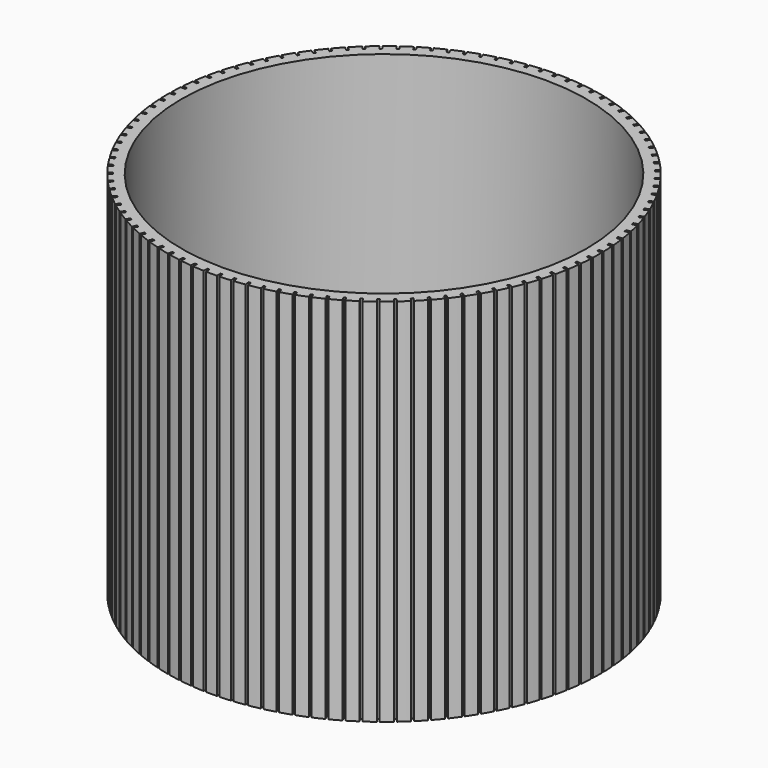
from build123d import *

# Parameters (mm, degrees)
F0_R     = 24.32304
F1_DEPTH = 41.656
F2_T     = -1.524
F3_W     = 0.254
F3_H     = 1.307197
F4_DEPTH = 41.657


with BuildPart() as f1:
    # F0 (on Top) → F1 (new body)
    with BuildSketch(Plane.XY):
        Circle(F0_R)
    extrude(amount=F1_DEPTH)

    # F2
    f2_openings = [f1.faces().sort_by_distance(p)[0] for p in [
        (0, 0, 41.656),
    ]]
    offset(amount=F2_T, openings=f2_openings)

    # F3 (on face) → F4 (cut, through all)
    with BuildSketch(Plane.XY.offset(41.656)):
        with Locations((0, 24.468638)):
            Rectangle(F3_W, F3_H)
        Polygon((1.688162, 25.065774), (1.434653, 25.081561), (1.353407, 23.776891), (1.606916, 23.761104), align=None)
        Polygon((3.242796, 24.912391), (2.990758, 24.943903), (2.828581, 23.646805), (3.080619, 23.615293), align=None)
        Polygon((4.784891, 24.662679), (4.535299, 24.709796), (4.292818, 23.425285), (4.54241, 23.378169), align=None)
        Polygon((6.308485, 24.317606), (6.062304, 24.380144), (5.740456, 23.113187), (5.986637, 23.050649), align=None)
        Polygon((7.807685, 23.878505), (7.565867, 23.956222), (7.165898, 22.711719), (7.407716, 22.634001), align=None)
        Polygon((9.276697, 23.347073), (9.040177, 23.43967), (8.563631, 22.222432), (8.800152, 22.129835), align=None)
        Polygon((10.709838, 22.725367), (10.479531, 22.832485), (9.928252, 21.647218), (10.15856, 21.5401), align=None)
        Polygon((12.101569, 22.015789), (11.878364, 22.137014), (11.254484, 20.988303), (11.477689, 20.867077), align=None)
        Polygon((13.446506, 21.221084), (13.231267, 21.355948), (12.537199, 20.248232), (12.752438, 20.113369), align=None)
        Polygon((14.739451, 20.344324), (14.53301, 20.492305), (13.771436, 19.429869), (13.977877, 19.281888), align=None)
        Polygon((15.975403, 19.3889), (15.778559, 19.549425), (14.952424, 18.536377), (15.149268, 18.375852), align=None)
        Polygon((17.149584, 18.358505), (16.963097, 18.530954), (16.075596, 17.571211), (16.262083, 17.398762), align=None)
        Polygon((18.257453, 17.257125), (18.082045, 17.440831), (17.13661, 16.538103), (17.312018, 16.354397), align=None)
        Polygon((19.294727, 16.089017), (19.131076, 16.28327), (18.131362, 15.441049), (18.295013, 15.246795), align=None)
        Polygon((20.257395, 14.858698), (20.106133, 15.062747), (19.056006, 14.284288), (19.207267, 14.080239), align=None)
        Polygon((21.141734, 13.570926), (21.003447, 13.783981), (19.906967, 13.072296), (20.045254, 12.85924), align=None)
        Polygon((21.944325, 12.230679), (21.819548, 12.451918), (20.680955, 11.809757), (20.805732, 11.588519), align=None)
        Polygon((22.662066, 10.843141), (22.55128, 11.071707), (21.374976, 10.501554), (21.485762, 10.272988), align=None)
        Polygon((23.29218, 9.413676), (23.195814, 9.648686), (21.986348, 9.152746), (22.082714, 8.917736), align=None)
        Polygon((23.832231, 7.947812), (23.750658, 8.188357), (22.512706, 7.768546), (22.594279, 7.528001), align=None)
        Polygon((24.280131, 6.451216), (24.213666, 6.696366), (22.952016, 6.354309), (23.01848, 6.109159), align=None)
        Polygon((24.634148, 4.929675), (24.583048, 5.178482), (23.302577, 4.915501), (23.353677, 4.666694), align=None)
        Polygon((24.892913, 3.389074), (24.857376, 3.640575), (23.563036, 3.457687), (23.598573, 3.206185), align=None)
        Polygon((25.055426, 1.835367), (25.035589, 2.088591), (23.732384, 1.986503), (23.752221, 1.733279), align=None)
        Polygon((25.121058, 0.274564), (25.116998, 0.528532), (23.809968, 0.507638), (23.814028, 0.25367), align=None)
        Polygon((25.089555, -1.2873), (25.101288, -1.033571), (23.795486, -0.97319), (23.783753, -1.226919), align=None)
        Polygon((24.96104, -2.844187), (24.98852, -2.591678), (23.688996, -2.450255), (23.661516, -2.702764), align=None)
        Polygon((24.736009, -4.390077), (24.77913, -4.139764), (23.490908, -3.917845), (23.447787, -4.168158), align=None)
        Polygon((24.415333, -5.918992), (24.473928, -5.671843), (23.201989, -5.370287), (23.143394, -5.617436), align=None)
        Polygon((24.00025, -7.42502), (24.074093, -7.18199), (22.823355, -6.801963), (22.749513, -7.044993), align=None)
        Polygon((23.492367, -8.902337), (23.581172, -8.664367), (22.356472, -8.207339), (22.267667, -8.445309), align=None)
        Polygon((22.893647, -10.345233), (22.997071, -10.113243), (21.803144, -9.58098), (21.699721, -9.81297), align=None)
        Polygon((22.206405, -11.748127), (22.324048, -11.523013), (21.16551, -10.917574), (21.047868, -11.142688), align=None)
        Polygon((21.433299, -13.105595), (21.564705, -12.888228), (20.446037, -12.211954), (20.314631, -12.429321), align=None)
        Polygon((20.577317, -14.412389), (20.721979, -14.203609), (19.647506, -13.459114), (19.502844, -13.667894), align=None)
        Polygon((19.64177, -15.663454), (19.799128, -15.464069), (18.773005, -14.654233), (18.615647, -14.853618), align=None)
        Polygon((18.630275, -16.853955), (18.799721, -16.664736), (17.825915, -15.792689), (17.656469, -15.981908), align=None)
        Polygon((17.546743, -17.979287), (17.727622, -17.800965), (16.809898, -16.870079), (16.629019, -17.048401), align=None)
        Polygon((16.395364, -19.035099), (16.586976, -18.868364), (15.728884, -17.882239), (15.537271, -18.048974), align=None)
        Polygon((15.180589, -20.017309), (15.382194, -19.862805), (14.58705, -18.825255), (14.385445, -18.979758), align=None)
        Polygon((13.907116, -20.922119), (14.117935, -20.780444), (13.388814, -19.695479), (13.177996, -19.837154), align=None)
        Polygon((12.57987, -21.74603), (12.799086, -21.617732), (12.138808, -20.489548), (11.919592, -20.617846), align=None)
        Polygon((11.203981, -22.485856), (11.430747, -22.371432), (10.841866, -21.204391), (10.615099, -21.318816), align=None)
        Polygon((9.78477, -23.138738), (10.01821, -23.038628), (9.503001, -21.837244), (9.269561, -21.937354), align=None)
        Polygon((8.327725, -23.70215), (8.566936, -23.616743), (8.127392, -22.38566), (7.888181, -22.471067), align=None)
        Polygon((6.83848, -24.173914), (7.082536, -24.10354), (6.720356, -22.847518), (6.4763, -22.917892), align=None)
        Polygon((5.322792, -24.552206), (5.57075, -24.497136), (5.287336, -23.221032), (5.039378, -23.276102), align=None)
        Polygon((3.786523, -24.835563), (4.037425, -24.79601), (3.833871, -23.504759), (3.58297, -23.544311), align=None)
        Polygon((2.235613, -25.022889), (2.488488, -24.999007), (2.365582, -23.697601), (2.112707, -23.721482), align=None)
        Polygon((0.676058, -25.11346), (0.929929, -25.105341), (0.888146, -23.798812), (0.634276, -23.806931), align=None)
        Polygon((-0.88611, -25.106926), (-0.632226, -25.114602), (-0.592724, -23.808002), (-0.846608, -23.800326), align=None)
        Polygon((-2.444853, -25.003312), (-2.191936, -25.026753), (-2.071302, -23.725134), (-2.324218, -23.701693), align=None)
        Polygon((-3.994141, -24.803019), (-3.743171, -24.842134), (-3.541872, -23.550529), (-3.792842, -23.511414), align=None)
        Polygon((-5.527986, -24.506821), (-5.279932, -24.561459), (-4.998746, -23.284862), (-5.2468, -23.230225), align=None)
        Polygon((-7.040457, -24.115864), (-6.796278, -24.185813), (-6.436291, -22.929161), (-6.68047, -22.859212), align=None)
        Polygon((-8.525704, -23.631659), (-8.286345, -23.716649), (-7.84895, -22.4848), (-8.088309, -22.399811), align=None)
        Polygon((-9.977985, -23.056078), (-9.744371, -23.155781), (-9.231259, -21.953499), (-9.464873, -21.853797), align=None)
        Polygon((-11.391684, -22.391348), (-11.164719, -22.505377), (-10.577875, -21.337311), (-10.80484, -21.223282), align=None)
        Polygon((-12.761336, -21.640038), (-12.541897, -21.767953), (-11.883589, -20.638618), (-12.103029, -20.510703), align=None)
        Polygon((-14.081645, -20.805053), (-13.870579, -20.946359), (-13.143354, -19.860124), (-13.354419, -19.718817), align=None)
        Polygon((-15.347504, -19.889622), (-15.145629, -20.043773), (-14.352297, -19.004837), (-14.554172, -18.850685), align=None)
        Polygon((-16.55402, -18.897285), (-16.362116, -19.063685), (-15.505746, -18.076064), (-15.697649, -17.909664), align=None)
        Polygon((-17.696527, -17.831878), (-17.515336, -18.009884), (-16.599239, -17.077398), (-16.780429, -16.899392), align=None)
        Polygon((-18.770607, -16.697522), (-18.600831, -16.886445), (-17.628548, -16.0127), (-17.798324, -15.823777), align=None)
        Polygon((-19.772108, -15.498602), (-19.614402, -15.697712), (-18.589694, -14.886086), (-18.7474, -14.686976), align=None)
        Polygon((-20.697158, -14.239754), (-20.552131, -14.448281), (-19.47896, -13.701912), (-19.623986, -13.493385), align=None)
        Polygon((-21.542178, -12.925846), (-21.410393, -13.142984), (-20.292907, -12.464758), (-20.424692, -12.24762), align=None)
        Polygon((-22.303902, -11.561959), (-22.185867, -11.786867), (-21.028389, -11.179407), (-21.146424, -10.954498), align=None)
        Polygon((-22.979385, -10.153365), (-22.875557, -10.385174), (-21.682561, -9.850829), (-21.786389, -9.619019), align=None)
        Polygon((-23.566014, -8.705511), (-23.476794, -8.943326), (-22.252894, -8.484161), (-22.342114, -8.246346), align=None)
        Polygon((-24.061521, -7.223996), (-23.987255, -7.466897), (-22.737182, -7.084687), (-22.811449, -6.841787), align=None)
        Polygon((-24.463991, -5.714549), (-24.404965, -5.961595), (-23.133554, -5.65782), (-23.19258, -5.410774), align=None)
        Polygon((-24.771867, -4.183005), (-24.72831, -4.433243), (-23.440476, -4.209076), (-23.484034, -3.958839), align=None)
        Polygon((-24.983959, -2.635287), (-24.956038, -2.887748), (-23.656762, -2.744057), (-23.684683, -2.491596), align=None)
        Polygon((-25.099446, -1.07738), (-25.08727, -1.331088), (-23.781576, -1.268427), (-23.793751, -1.014719), align=None)
        Polygon((-25.117882, 0.484694), (-25.121499, 0.230719), (-23.814434, 0.212107), (-23.810817, 0.466081), align=None)
        Polygon((-25.039196, 2.044893), (-25.058591, 1.791635), (-23.75521, 1.691821), (-23.735815, 1.945079), align=None)
        Polygon((-24.863692, 3.597185), (-24.89879, 3.345622), (-23.604133, 3.164993), (-23.569035, 3.416556), align=None)
        Polygon((-24.592049, 5.135569), (-24.642714, 4.886673), (-23.361786, 4.625927), (-23.311121, 4.874823), align=None)
        Polygon((-24.225316, 6.654095), (-24.291353, 6.408829), (-23.029108, 6.068975), (-22.963071, 6.31424), align=None)
        Polygon((-23.764913, 8.146891), (-23.846066, 7.906205), (-22.607384, 7.488555), (-22.526231, 7.729242), align=None)
        Polygon((-23.212619, 9.608187), (-23.308574, 9.373009), (-22.098245, 8.87918), (-22.002289, 9.114358), align=None)
        Polygon((-22.570569, 11.032331), (-22.680956, 10.803572), (-21.503659, 10.235473), (-21.393272, 10.464232), align=None)
        Polygon((-21.841247, 12.413817), (-21.965639, 12.19236), (-20.825926, 11.552188), (-20.701535, 11.773644), align=None)
        Polygon((-21.027473, 13.747302), (-21.165387, 13.534006), (-20.067667, 12.824235), (-19.929752, 13.037532), align=None)
        Polygon((-20.132392, 15.027632), (-20.283297, 14.823319), (-19.231813, 14.046695), (-19.080908, 14.251008), align=None)
        Polygon((-19.159466, 16.249855), (-19.322778, 16.055316), (-18.321596, 15.214841), (-18.158284, 15.40938), align=None)
        Polygon((-18.112457, 17.409245), (-18.287544, 17.225233), (-17.340535, 16.324157), (-17.165448, 16.508169), align=None)
        Polygon((-16.995414, 18.50132), (-17.181599, 18.328546), (-16.292425, 17.370353), (-16.106239, 17.543127), align=None)
        Polygon((-15.812655, 19.521856), (-16.009219, 19.360988), (-15.181317, 18.349383), (-14.984754, 18.510252), align=None)
        Polygon((-14.568754, 20.466909), (-14.774936, 20.318568), (-14.011509, 19.257463), (-13.805327, 19.405804), align=None)
        Polygon((-13.26852, 21.332822), (-13.483523, 21.197583), (-12.787523, 20.091081), (-12.572519, 20.22632), align=None)
        Polygon((-11.916982, 22.116249), (-12.139975, 21.994634), (-11.514091, 20.847013), (-11.291098, 20.968628), align=None)
        Polygon((-10.519365, 22.81416), (-10.749485, 22.70664), (-10.196139, 21.522337), (-9.966019, 21.629857), align=None)
        Polygon((-9.081073, 23.423856), (-9.317431, 23.330847), (-8.838762, 22.114442), (-8.602404, 22.207452), align=None)
        Polygon((-7.607667, 23.942981), (-7.849349, 23.864841), (-7.447208, 22.621038), (-7.205526, 22.699177), align=None)
        Polygon((-6.104846, 24.369526), (-6.350917, 24.306558), (-6.026859, 23.040166), (-5.780787, 23.103133), align=None)
        Polygon((-4.578419, 24.701842), (-4.827928, 24.654291), (-4.583206, 23.370205), (-4.333696, 23.417757), align=None)
        Polygon((-3.034289, 24.938645), (-3.286271, 24.906693), (-3.121831, 23.60988), (-2.869848, 23.641832), align=None)
        Polygon((-1.478426, 25.079019), (-1.731907, 25.06279), (-1.648385, 23.758264), (-1.394904, 23.774493), align=None)
    extrude(amount=-F4_DEPTH, mode=Mode.SUBTRACT)


solid = f1.part
